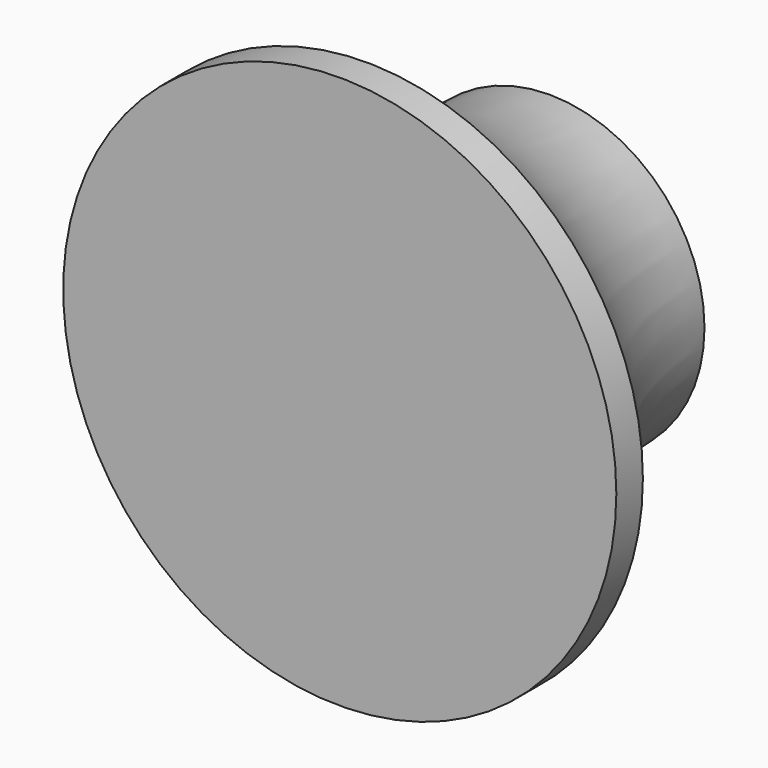
from build123d import *

# Parameters (mm, degrees)
SKETCH001_W  = 20.5
SKETCH001_H  = 10
POCKET_DEPTH = 21.713315
CHAMFER_SIZE = 1.5


with BuildPart() as part:
    # Sketch → Revolution (revolve)
    with BuildSketch(Plane.XY):
        with BuildLine():
            Line((0, 0), (25, 0))
            Line((25, 0), (25, 3))
            ThreePointArc((14, 23.712315), (16.920598, 11.986276), (25, 3))
            Line((14, 23.712315), (0, 23.712315))
            Line((0, 23.712315), (0, 0))
        make_face()
    revolve(axis=Axis((0, 0, 0), (0, 1, 0)))

    # Sketch001 → Pocket (cut, through all)
    with BuildSketch(Plane.XZ.offset(-2)):
        Rectangle(SKETCH001_W, SKETCH001_H)
    extrude(amount=-POCKET_DEPTH, mode=Mode.SUBTRACT)

    # Chamfer
    chamfer_edges = [part.edges().sort_by_distance(p)[0] for p in [
        (0, 23.712315, -5),
        (10.25, 23.712315, 0),
        (0, 23.712315, 5),
        (-10.25, 23.712315, 0),
    ]]
    chamfer(chamfer_edges, length=CHAMFER_SIZE)


solid = part.part
